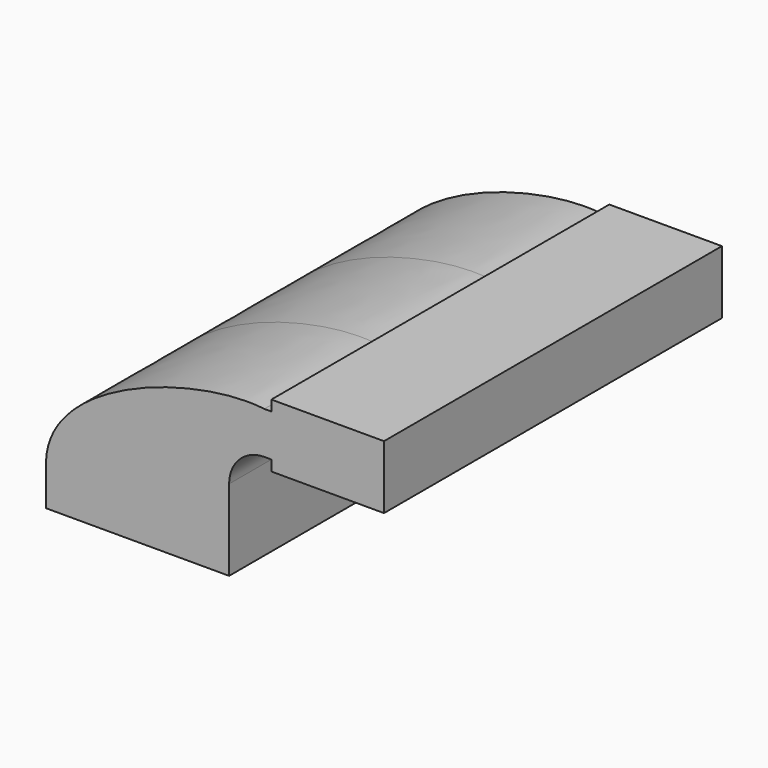
from build123d import *

# Parameters (mm, degrees)
F0_W     = 25.4
F0_H     = 4.7498
F1_DEPTH = 63.5
F2_DEPTH = 63.5


with BuildPart() as f1:
    # F0 (on Front) → F1 (new body, symmetric)
    with BuildSketch(Plane.XZ):
        Polygon((41.275, -9.525), (41.275, 9.525), (22.225, 9.525), (-41.275, 9.525), (-41.275, -9.525), align=None)
        with BuildLine():
            Line((22.225, 9.525), (41.275, 9.525))
            Line((41.275, 9.525), (41.275, 27.0002))
            ThreePointArc((41.275, 27.0002), (45.92468, 38.22552), (57.15, 42.8752))
            Line((57.15, 42.8752), (60.325, 42.8752))
            Line((60.325, 42.8752), (60.325, 61.9252))
            Line((60.325, 61.9252), (57.15, 61.9252))
            ThreePointArc((57.15, 61.9252), (32.454296, 51.695904), (22.225, 27.0002))
            Line((22.225, 27.0002), (22.225, 9.525))
        make_face()
        with BuildLine():
            Line((-41.275, 9.525), (22.225, 9.525))
            Line((22.225, 9.525), (22.225, 27.0002))
            ThreePointArc((22.225, 27.0002), (32.454296, 51.695904), (57.15, 61.9252))
            add(Edge.make_bspline(
                [(-41.275, 9.525), (-39.657938, 44.64065), (26.937186, 65.652682), (57.15, 61.9252)],
                knots=[0, 0, 0, 0, 111.504536, 111.504536, 111.504536, 111.504536], degree=3))
        make_face()
        Polygon((60.325, 61.9252), (60.325, 42.8752), (60.325, 38.1), (111.125, 38.1), (111.125, 66.675), (85.725, 66.675), (85.725, 61.9252), align=None)
        with Locations((73.025, 64.3001)):
            Rectangle(F0_W, F0_H)
    extrude(amount=F1_DEPTH, both=True)

    # F1_face (on face) → F2 (join, symmetric)
    with BuildSketch(Plane(origin=(25.424226, -63.5, 29.456982), x_dir=(1, 0, 0), z_dir=(0, -1, 0))):
        with BuildLine():
            Line((15.850774, -38.981982), (15.850774, -2.456782))
            ThreePointArc((15.850774, -2.456782), (20.500454, 8.768538), (31.725774, 13.418218))
            Line((31.725774, 13.418218), (34.900774, 13.418218))
            Line((34.900774, 13.418218), (34.900774, 8.643018))
            Line((34.900774, 8.643018), (85.700774, 8.643018))
            Line((85.700774, 8.643018), (85.700774, 37.218018))
            Line((85.700774, 37.218018), (34.900774, 37.218018))
            Line((34.900774, 37.218018), (34.900774, 32.468218))
            Line((34.900774, 32.468218), (31.725774, 32.468218))
            add(Edge.make_bspline(
                [(-66.699226, -19.931982), (-65.082164, 15.183668), (1.51296, 36.1957), (31.725774, 32.468218)],
                knots=[0, 0, 0, 0, 111.504536, 111.504536, 111.504536, 111.504536], degree=3))
            Line((-66.699226, -19.931982), (-66.699226, -38.981982))
            Line((-66.699226, -38.981982), (15.850774, -38.981982))
        make_face()
    extrude(amount=F2_DEPTH, both=True)


solid = f1.part
